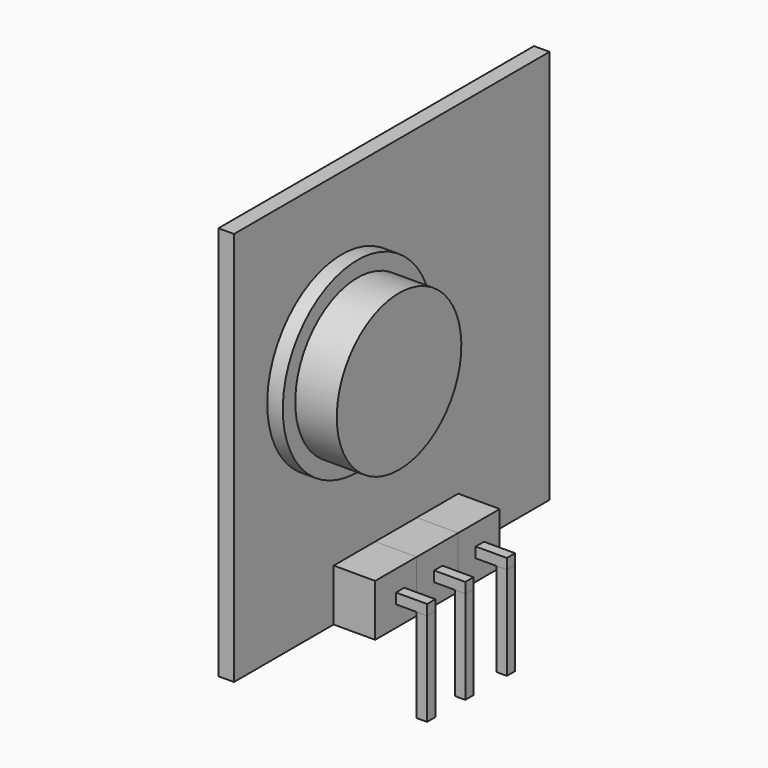
from build123d import *

# Parameters (mm, degrees)
BOX_W                   = 0.75
BOX_H                   = 19
BOX_DEPTH               = 19
CYLINDER_R              = 4.5
CYLINDER_DEPTH          = 0.75
CYLINDER_PITCH_ANGLE    = 90
CYLINDER001_R           = 3.75
CYLINDER001_DEPTH       = 2
CYLINDER001_PITCH_ANGLE = 90
BOX001_W                = 2
BOX001_H                = 2.5
BOX001_DEPTH            = 2.5
BOX002_W                = 2
BOX002_H                = 2.5
BOX002_DEPTH            = 2.5
BOX003_W                = 2
BOX003_H                = 2.5
BOX003_DEPTH            = 2.5
BOX004_W                = 1.5
BOX004_H                = 0.5
BOX004_DEPTH            = 0.5
BOX005_W                = 0.5
BOX005_H                = 0.5
BOX005_DEPTH            = 4.5
BOX006_W                = 1.5
BOX006_H                = 0.5
BOX006_DEPTH            = 0.5
BOX007_W                = 0.5
BOX007_H                = 0.5
BOX007_DEPTH            = 4.5
BOX008_W                = 1.5
BOX008_H                = 0.5
BOX008_DEPTH            = 0.5
BOX009_W                = 0.5
BOX009_H                = 0.5
BOX009_DEPTH            = 4.5


with BuildPart() as cube:
    # Box → Box (new body)
    with BuildSketch(Plane(origin=(0.25, 0, 0), x_dir=(1, 0, 0), z_dir=(0, 0, 1))):
        with Locations((0.375, 9.5)):
            Rectangle(BOX_W, BOX_H)
    extrude(amount=BOX_DEPTH)


with BuildPart() as cylindre:
    # Cylinder → Cylinder (new body)
    with BuildSketch(Plane.XY):
        Circle(CYLINDER_R)
    extrude(amount=CYLINDER_DEPTH)


with BuildPart() as cylindre_1:
    # Cylinder pitch: moved
    add(cylindre.part.rotate(Axis((0, 0, 0), (0, 1, 0)), CYLINDER_PITCH_ANGLE))


with BuildPart() as cylindre_2:
    # Cylinder placement: moved
    add(cylindre_1.part.moved(Location((1, 6.5, 11))))


with BuildPart() as cylindre001:
    # Cylinder001 → Cylinder001 (new body)
    with BuildSketch(Plane.XY):
        Circle(CYLINDER001_R)
    extrude(amount=CYLINDER001_DEPTH)


with BuildPart() as cylindre001_1:
    # Cylinder001 pitch: moved
    add(cylindre001.part.rotate(Axis((0, 0, 0), (0, 1, 0)), CYLINDER001_PITCH_ANGLE))


with BuildPart() as cylindre001_2:
    # Cylinder001 placement: moved
    add(cylindre001_1.part.moved(Location((1.75, 6.5, 11))))


with BuildPart() as cube001:
    # Box001 → Box001 (new body)
    with BuildSketch(Plane(origin=(1, 6, 0), x_dir=(1, 0, 0), z_dir=(0, 0, 1))):
        with Locations((1, 1.25)):
            Rectangle(BOX001_W, BOX001_H)
    extrude(amount=BOX001_DEPTH)


with BuildPart() as cube002:
    # Box002 → Box002 (new body)
    with BuildSketch(Plane(origin=(1, 8.5, 0), x_dir=(1, 0, 0), z_dir=(0, 0, 1))):
        with Locations((1, 1.25)):
            Rectangle(BOX002_W, BOX002_H)
    extrude(amount=BOX002_DEPTH)


with BuildPart() as cube003:
    # Box003 → Box003 (new body)
    with BuildSketch(Plane(origin=(1, 11, 0), x_dir=(1, 0, 0), z_dir=(0, 0, 1))):
        with Locations((1, 1.25)):
            Rectangle(BOX003_W, BOX003_H)
    extrude(amount=BOX003_DEPTH)


with BuildPart() as cube004:
    # Box004 → Box004 (new body)
    with BuildSketch(Plane(origin=(3, 7.25, 1), x_dir=(1, 0, 0), z_dir=(0, 0, 1))):
        with Locations((0.75, 0.25)):
            Rectangle(BOX004_W, BOX004_H)
    extrude(amount=BOX004_DEPTH)


with BuildPart() as cube005:
    # Box005 → Box005 (new body)
    with BuildSketch(Plane(origin=(4, 7.25, -3.5), x_dir=(1, 0, 0), z_dir=(0, 0, 1))):
        with Locations((0.25, 0.25)):
            Rectangle(BOX005_W, BOX005_H)
    extrude(amount=BOX005_DEPTH)


with BuildPart() as cube006:
    # Box006 → Box006 (new body)
    with BuildSketch(Plane(origin=(3, 9.55, 1), x_dir=(1, 0, 0), z_dir=(0, 0, 1))):
        with Locations((0.75, 0.25)):
            Rectangle(BOX006_W, BOX006_H)
    extrude(amount=BOX006_DEPTH)


with BuildPart() as cube007:
    # Box007 → Box007 (new body)
    with BuildSketch(Plane(origin=(4, 9.55, -3.5), x_dir=(1, 0, 0), z_dir=(0, 0, 1))):
        with Locations((0.25, 0.25)):
            Rectangle(BOX007_W, BOX007_H)
    extrude(amount=BOX007_DEPTH)


with BuildPart() as cube008:
    # Box008 → Box008 (new body)
    with BuildSketch(Plane(origin=(3, 12.05, 1), x_dir=(1, 0, 0), z_dir=(0, 0, 1))):
        with Locations((0.75, 0.25)):
            Rectangle(BOX008_W, BOX008_H)
    extrude(amount=BOX008_DEPTH)


with BuildPart() as cube009:
    # Box009 → Box009 (new body)
    with BuildSketch(Plane(origin=(4, 12.05, -3.5), x_dir=(1, 0, 0), z_dir=(0, 0, 1))):
        with Locations((0.25, 0.25)):
            Rectangle(BOX009_W, BOX009_H)
    extrude(amount=BOX009_DEPTH)


solid = Compound([cube.part, cylindre_2.part, cylindre001_2.part, cube001.part, cube002.part, cube003.part, cube004.part, cube005.part, cube006.part, cube007.part, cube008.part, cube009.part])
